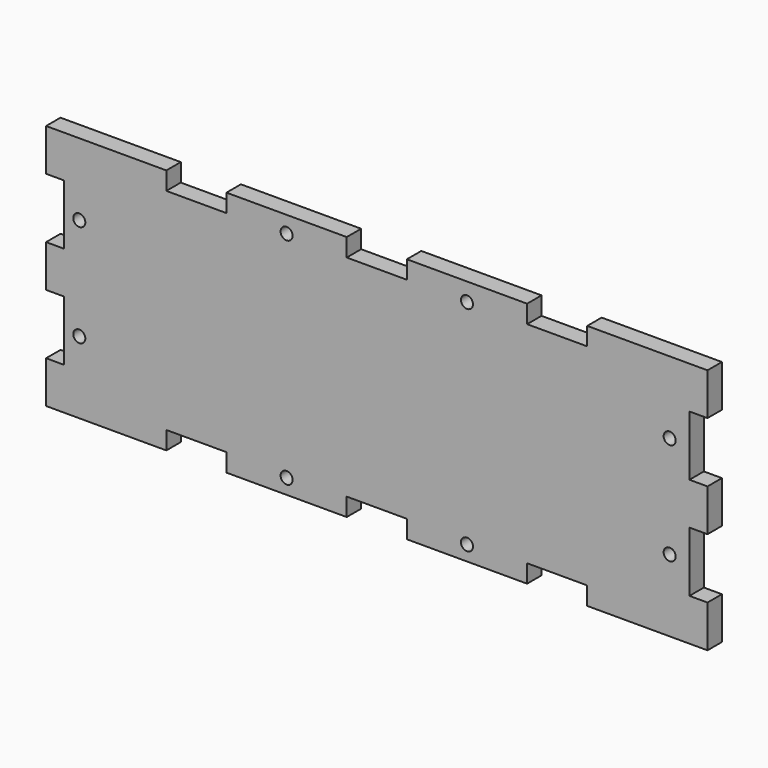
from build123d import *

# Parameters (mm, degrees)
F0_R     = 1
F1_DEPTH = 3


with BuildPart() as f1:
    # F0 (on Front) → F1 (new body)
    with BuildSketch(Plane.XZ):
        Polygon((-51.975646, 2.591607), (-54.975646, 2.591607), (-54.975646, -0.908393), (-54.975646, -4.408393), (-51.975646, -4.408393), (-51.975646, -14.408393), (-54.975646, -14.408393), (-54.975646, -21.408393), (-34.975646, -21.408393), (-34.975646, -18.408393), (-24.975646, -18.408393), (-24.975646, -21.408393), (-4.975646, -21.408393), (-4.975646, -18.408393), (0.024354, -18.408393), (5.024354, -18.408393), (5.024354, -21.408393), (25.024354, -21.408393), (25.024354, -18.408393), (35.024354, -18.408393), (35.024354, -21.408393), (55.024354, -21.408393), (55.024354, -14.408393), (52.024354, -14.408393), (52.024354, -4.408393), (55.024354, -4.408393), (55.024354, -0.908393), (55.024354, 2.591607), (52.024354, 2.591607), (52.024354, 12.591607), (55.024354, 12.591607), (55.024354, 19.591607), (35.024354, 19.591607), (35.024354, 16.591607), (25.024354, 16.591607), (25.024354, 19.591607), (5.024354, 19.591607), (5.024354, 16.591607), (0.024354, 16.591607), (-4.975646, 16.591607), (-4.975646, 19.591607), (-24.975646, 19.591607), (-24.975646, 16.591607), (-34.975646, 16.591607), (-34.975646, 19.591607), (-54.975646, 19.591607), (-54.975646, 12.591607), (-51.975646, 12.591607), align=None)
        with Locations((-14.975646, -18.908393)):
            Circle(F0_R, mode=Mode.SUBTRACT)
        with Locations((-49.452938, -9.408393)):
            Circle(F0_R, mode=Mode.SUBTRACT)
        with Locations((15.024354, -18.908393)):
            Circle(F0_R, mode=Mode.SUBTRACT)
        with Locations((48.734484, -9.408393)):
            Circle(F0_R, mode=Mode.SUBTRACT)
        with Locations((-49.452938, 7.591607)):
            Circle(F0_R, mode=Mode.SUBTRACT)
        with Locations((-14.975646, 16.840009)):
            Circle(F0_R, mode=Mode.SUBTRACT)
        with Locations((48.734484, 7.591607)):
            Circle(F0_R, mode=Mode.SUBTRACT)
        with Locations((15.024354, 16.571959)):
            Circle(F0_R, mode=Mode.SUBTRACT)
    extrude(amount=F1_DEPTH)


solid = f1.part
